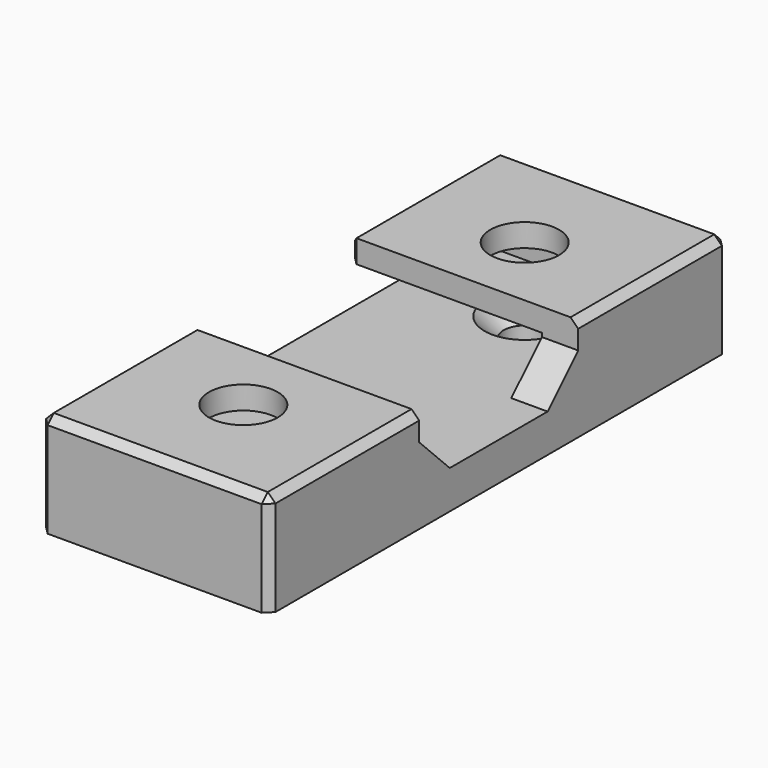
from build123d import *

# Parameters (mm, degrees)
SKETCH001_W     = 30
SKETCH001_H     = 75
SKETCH001_R     = 2.75
PAD_DEPTH       = 5
PAD001_DEPTH    = 5.5
SKETCH003_W     = 30
SKETCH003_H     = 24.5
PAD002_DEPTH    = 3
CHAMFER_SIZE    = 2.5
SKETCH004_R     = 4.5
POCKET_DEPTH    = 3
CHAMFER001_SIZE = 5
CHAMFER002_SIZE = 1


with BuildPart() as part:
    # Sketch001 → Pad (new body)
    with BuildSketch(Plane.XY):
        Rectangle(SKETCH001_W, SKETCH001_H)
        with Locations((0, 23)):
            Circle(SKETCH001_R, mode=Mode.SUBTRACT)
        with Locations((0, -23)):
            Circle(SKETCH001_R, mode=Mode.SUBTRACT)
    extrude(amount=PAD_DEPTH)

    # Sketch002 (on Face8 of Pad) → Pad001 (join)
    with BuildSketch(Plane.XY.offset(5)):
        Polygon((-15, 37.5), (15, 37.5), (15, 13), (10.25, 13), (10.25, 32.75), (-15, 32.75), align=None)
        Polygon((-15, -37.5), (15, -37.5), (15, -13), (10.25, -13), (10.25, -32.75), (-15, -32.75), align=None)
    extrude(amount=PAD001_DEPTH)

    # Sketch003 (on Face10 of Pad001) → Pad002 (join)
    with BuildSketch(Plane.XY.offset(10.5)):
        with Locations((0, 25.25)):
            Rectangle(SKETCH003_W, SKETCH003_H)
        with Locations((0, -25.25)):
            Rectangle(SKETCH003_W, SKETCH003_H)
    extrude(amount=PAD002_DEPTH)

    # Chamfer
    chamfer_edges = [part.edges().sort_by_distance(p)[0] for p in [
        (-2.75, -23, 5),
        (-2.75, 23, 5),
    ]]
    chamfer(chamfer_edges, length=CHAMFER_SIZE)

    # Sketch004 (on Face18 of Chamfer) → Pocket (cut)
    with BuildSketch(Plane.XY.offset(13.5)):
        with Locations((0, 23)):
            Circle(SKETCH004_R)
        with Locations((0, -23)):
            Circle(SKETCH004_R)
    extrude(amount=-POCKET_DEPTH, mode=Mode.SUBTRACT)

    # Chamfer001
    chamfer001_edges = [part.edges().sort_by_distance(p)[0] for p in [
        (12.625, 13, 5),
        (12.625, -13, 5),
    ]]
    chamfer(chamfer001_edges, length=CHAMFER001_SIZE)

    # Chamfer002
    chamfer002_edges = [part.edges().sort_by_distance(p)[0] for p in [
        (15, 25.25, 13.5),
        (0, 37.5, 13.5),
        (15, -25.25, 13.5),
        (0, -37.5, 13.5),
        (-15, 25.25, 13.5),
        (-15, -25.25, 13.5),
        (-15, 13, 12),
        (-15, -13, 12),
        (-15, -37.5, 6.75),
        (-15, 37.5, 6.75),
        (15, -37.5, 6.75),
        (15, 37.5, 6.75),
    ]]
    chamfer(chamfer002_edges, length=CHAMFER002_SIZE)


solid = part.part
